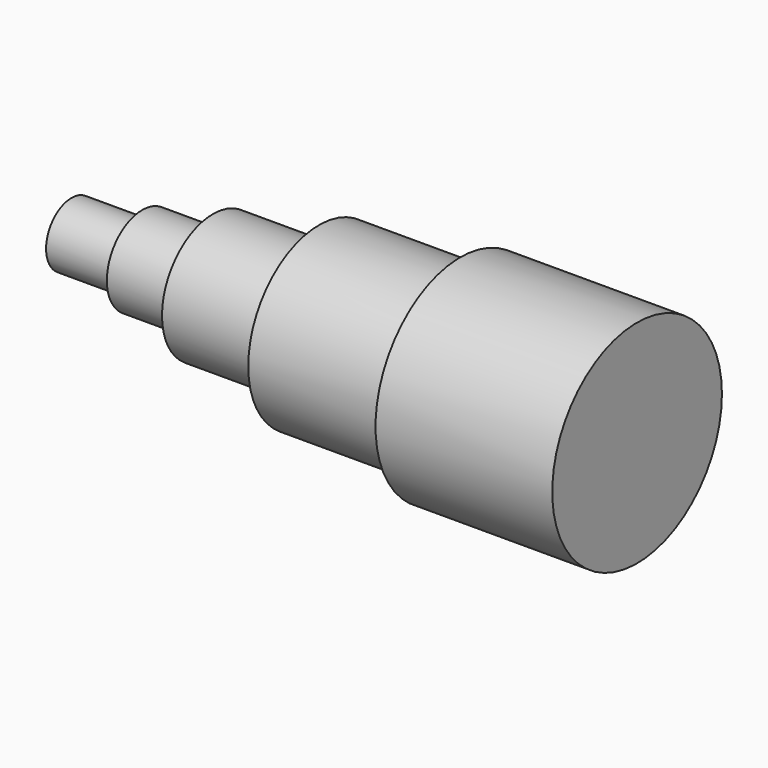
from build123d import *

# Parameters (mm, degrees)
F0_R     = 38.1
F1_DEPTH = 203.2
F2_R     = 38.1
F2_R_2   = 31.75
F3_DEPTH = 139.7
F4_R     = 31.75
F4_R_2   = 22.86
F5_DEPTH = 88.9
F6_R     = 31.75
F6_R_2   = 15.875
F7_DEPTH = 50.8
F8_R     = 15.875
F8_R_2   = 11.43
F9_DEPTH = 25.4


with BuildPart() as f1:
    # F0 (on Right) → F1 (new body)
    with BuildSketch(Plane.YZ):
        Circle(F0_R)
    extrude(amount=F1_DEPTH)

    # F2 (on face) → F3 (cut)
    with BuildSketch(Plane(origin=(0, 0, 0), x_dir=(0, -1, 0), z_dir=(-1, 0, 0))):
        Circle(F2_R)
        Circle(F2_R_2, mode=Mode.SUBTRACT)
    extrude(amount=-F3_DEPTH, mode=Mode.SUBTRACT)

    # F4 (on face) → F5 (cut)
    with BuildSketch(Plane(origin=(0, 0, 0), x_dir=(0, -1, 0), z_dir=(-1, 0, 0))):
        Circle(F4_R)
        Circle(F4_R_2, mode=Mode.SUBTRACT)
    extrude(amount=-F5_DEPTH, mode=Mode.SUBTRACT)

    # F6 (on face) → F7 (cut)
    with BuildSketch(Plane(origin=(0, 0, 0), x_dir=(0, -1, 0), z_dir=(-1, 0, 0))):
        Circle(F6_R)
        Circle(F6_R_2, mode=Mode.SUBTRACT)
    extrude(amount=-F7_DEPTH, mode=Mode.SUBTRACT)

    # F8 (on face) → F9 (cut)
    with BuildSketch(Plane(origin=(0, 0, 0), x_dir=(0, -1, 0), z_dir=(-1, 0, 0))):
        Circle(F8_R)
        Circle(F8_R_2, mode=Mode.SUBTRACT)
    extrude(amount=-F9_DEPTH, mode=Mode.SUBTRACT)


solid = f1.part
